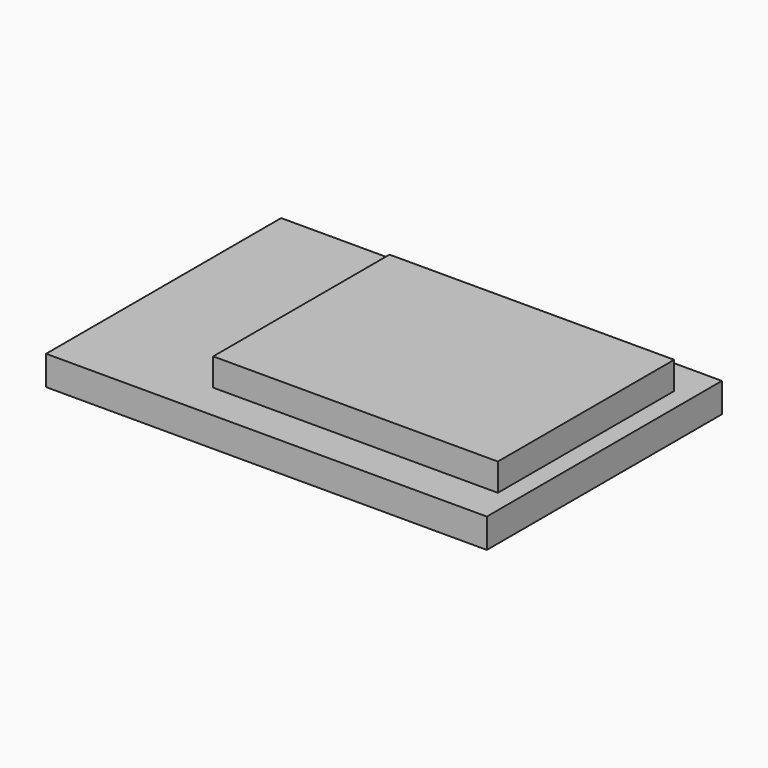
from build123d import *

# Parameters (mm, degrees)
F0_W     = 24
F0_H     = 1.6
F1_DEPTH = 8
F2_W     = 15.5
F2_H     = 12
F3_DEPTH = 1.5


with BuildPart() as f1:
    # F0 (on Front) → F1 (new body, symmetric)
    with BuildSketch(Plane.XZ):
        with Locations((0, 0.8)):
            Rectangle(F0_W, F0_H)
    extrude(amount=F1_DEPTH, both=True)

    # F2 (on face) → F3 (join)
    with BuildSketch(Plane.XY.offset(1.6)):
        with Locations((3.25, 0)):
            Rectangle(F2_W, F2_H)
    extrude(amount=F3_DEPTH)


solid = f1.part
